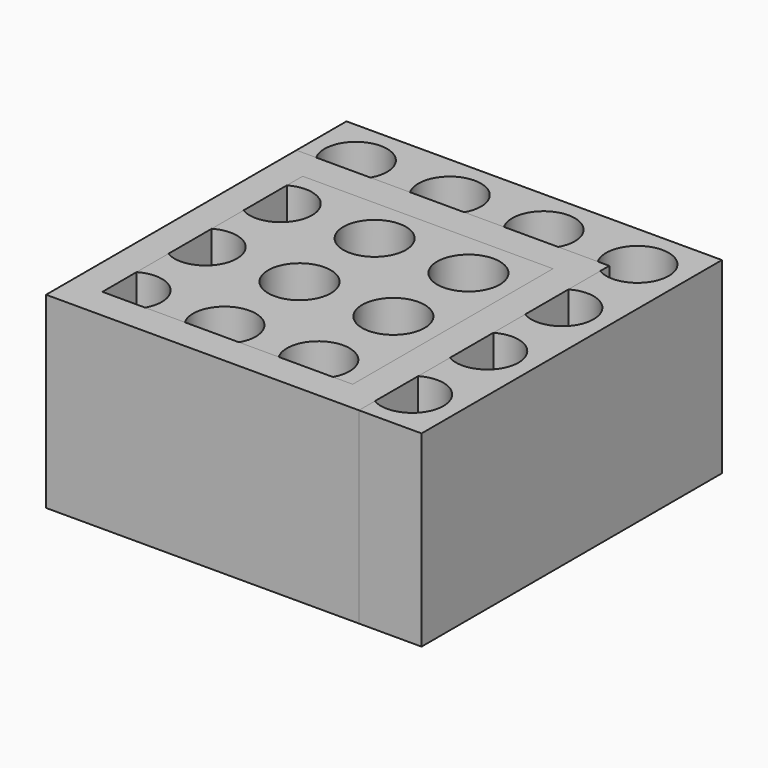
from build123d import *

# Parameters (mm, degrees)
CYLINDER_R     = 1
CYLINDER_DEPTH = 3
ARRAY_X_COUNT  = 4
ARRAY_X_PITCH  = 3
ARRAY_Y_COUNT  = 4
ARRAY_Y_PITCH  = 3
BOX_W          = 12
BOX_H          = 12
BOX_DEPTH      = 6
BOX002_W       = 8
BOX002_H       = 8
BOX002_DEPTH   = 6
BOX001_W       = 10
BOX001_H       = 10
BOX001_DEPTH   = 6


with BuildPart() as array:
    # Cylinder → Cylinder (new body)
    with BuildSketch(Plane.XY.offset(3)):
        Circle(CYLINDER_R)
    extrude(amount=CYLINDER_DEPTH)

    # Array X: Array ×4


with BuildPart() as array_1:
    add(array.part)
    with Locations(*[(i * ARRAY_X_PITCH, 0, 0) for i in range(1, ARRAY_X_COUNT)]):
        add(array.part)

    # Array Y: Array ×4


with BuildPart() as array_2:
    add(array_1.part)
    with Locations(*[(0, i * ARRAY_Y_PITCH, 0) for i in range(1, ARRAY_Y_COUNT)]):
        add(array_1.part)


with BuildPart() as array_3:
    # Array placement: moved
    add(array_2.part.moved(Location((1.5, 1.5, 0))))


with BuildPart() as cut:
    # Box → Box (new body)
    with BuildSketch(Plane.XY):
        with Locations((6, 6)):
            Rectangle(BOX_W, BOX_H)
    extrude(amount=BOX_DEPTH)

    # Cut: cut Array
    add(array_3.part, mode=Mode.SUBTRACT)


with BuildPart() as cube002:
    # Box002 → Box002 (new body)
    with BuildSketch(Plane(origin=(1, 1, 2), x_dir=(1, 0, 0), z_dir=(0, 0, 1))):
        with Locations((4, 4)):
            Rectangle(BOX002_W, BOX002_H)
    extrude(amount=BOX002_DEPTH)


with BuildPart() as cut001:
    # Box001 → Box001 (new body)
    with BuildSketch(Plane.XY):
        with Locations((5, 5)):
            Rectangle(BOX001_W, BOX001_H)
    extrude(amount=BOX001_DEPTH)

    # Cut001: cut Cube002
    add(cube002.part, mode=Mode.SUBTRACT)


solid = Compound([cut.part, cut001.part])
